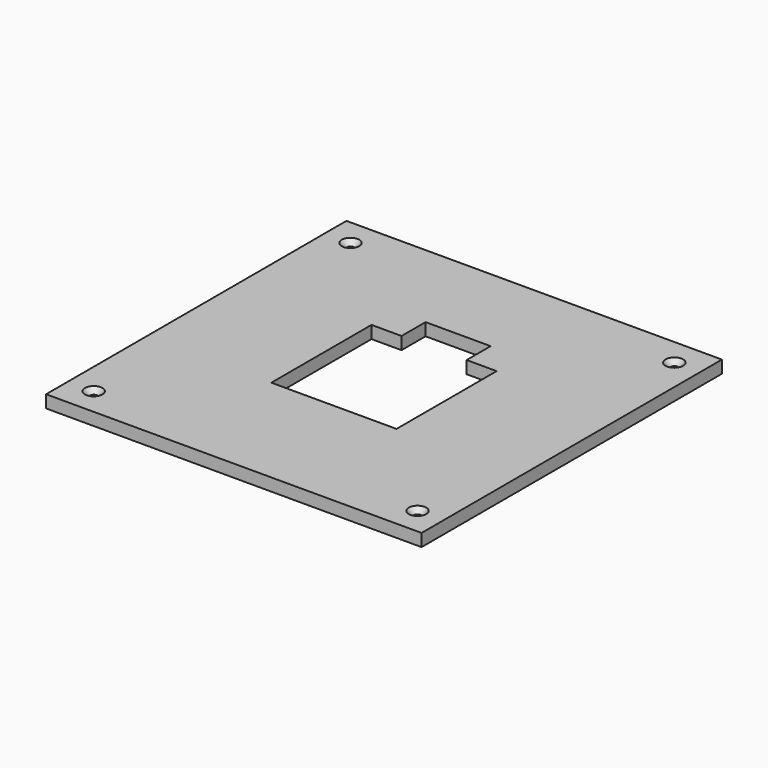
from build123d import *

# Parameters (mm, degrees)
F0_W     = 150
F0_H     = 150
F0_R     = 1.5
F1_DEPTH = 5
F2_SIZE  = 2


with BuildPart() as f1:
    # F0 (on Top) → F1 (new body)
    with BuildSketch(Plane.XY):
        Rectangle(F0_W, F0_H)
        with Locations((-64.68948, -64.129733)):
            Circle(F0_R, mode=Mode.SUBTRACT)
        with Locations((64.68948, -64.129733)):
            Circle(F0_R, mode=Mode.SUBTRACT)
        with Locations((-64.68948, 64.129733)):
            Circle(F0_R, mode=Mode.SUBTRACT)
        Polygon((-25, -25), (-25, 25), (-13, 25), (-13, 37), (13, 37), (13, 25), (25, 25), (25, -25), align=None, mode=Mode.SUBTRACT)
        with Locations((64.68948, 64.129733)):
            Circle(F0_R, mode=Mode.SUBTRACT)
    extrude(amount=F1_DEPTH)

    # F2
    f2_edges = [f1.edges().sort_by_distance(p)[0] for p in [
        (-66.18948, 64.129733, 5),
        (-66.18948, -64.129733, 5),
        (63.18948, -64.129733, 5),
        (63.18948, 64.129733, 5),
    ]]
    chamfer(f2_edges, length=F2_SIZE)


solid = f1.part
